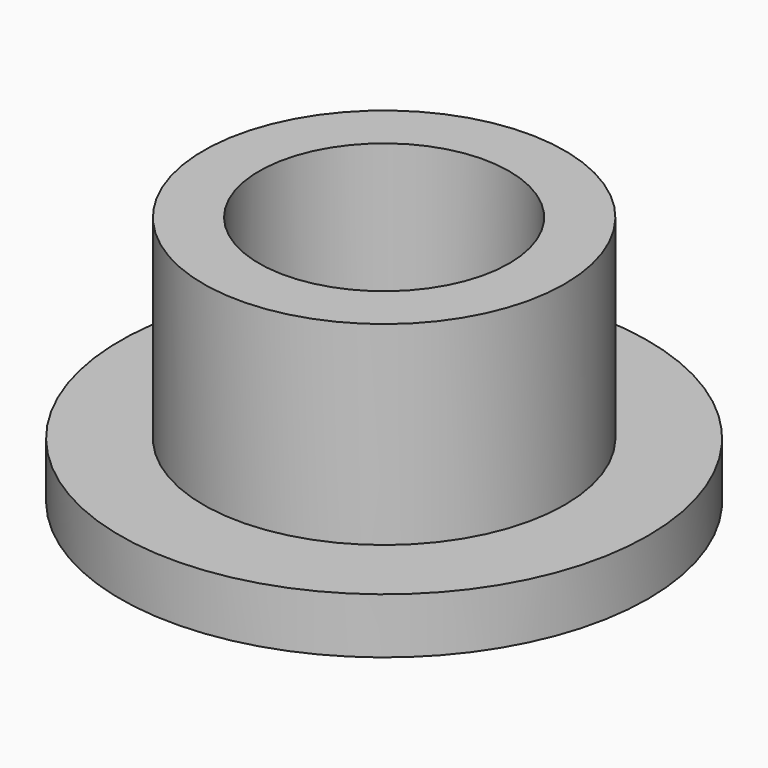
from build123d import *

# Parameters (mm, degrees)
F0_R     = 9.5
F0_R_2   = 6.5
F1_DEPTH = 2
F0_R_3   = 4.5
F2_DEPTH = 9
F3_DEPTH = 2


with BuildPart() as f1:
    # F0 (on Top) → F1 (new body)
    with BuildSketch(Plane.XY):
        Circle(F0_R)
        Circle(F0_R_2, mode=Mode.SUBTRACT)
    extrude(amount=F1_DEPTH)

    # F0 (on Top) → F2 (join)
    with BuildSketch(Plane.XY):
        Circle(F0_R_2)
        Circle(F0_R_3, mode=Mode.SUBTRACT)
    extrude(amount=F2_DEPTH)

    # F0 (on Top) → F3 (join)
    with BuildSketch(Plane.XY):
        Circle(F0_R_3)
    extrude(amount=F3_DEPTH)


solid = f1.part
